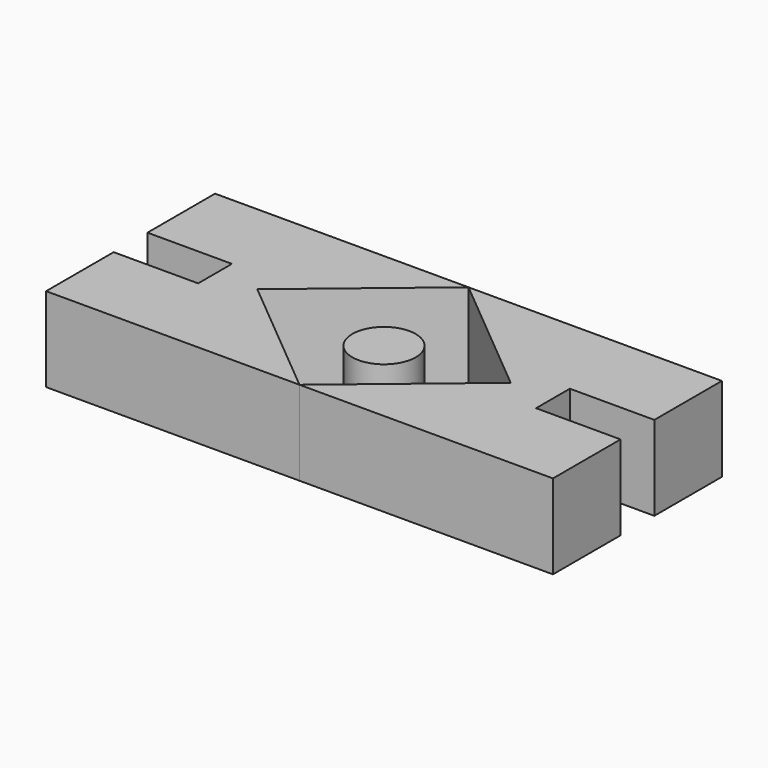
from build123d import *

# Parameters (mm, degrees)
F1_DEPTH = 20
F2_R     = 7.5
F3_DEPTH = 18


with BuildPart() as f1:
    # F0 (on Top) → F1 (new body)
    with BuildSketch(Plane.XY):
        Polygon((30, 0), (30, -25), (60, -25), (60, -5), (40, -5), (40, 5), (60, 5), (60, 11.190053), (60, 25), (30, 25), align=None)
        Polygon((30, 0), (0, -25), (30, -25), align=None)
        Polygon((-30, 0), (-30, -25), (0, -25), align=None)
        Polygon((-30, 25), (-30, 0), (0, 25), align=None)
        Polygon((0, 25), (30, 0), (30, 25), align=None)
        Polygon((-60, -25), (-30, -25), (-30, 0), (-30, 25), (-60, 25), (-60, 5), (-40, 5), (-40, -5), (-60, -5), align=None)
    extrude(amount=F1_DEPTH)


with BuildPart() as f3:
    # F2 (on Top) → F3 (new body)
    with BuildSketch(Plane.XY):
        Circle(F2_R)
    extrude(amount=F3_DEPTH)


solid = Compound([f1.part, f3.part])
